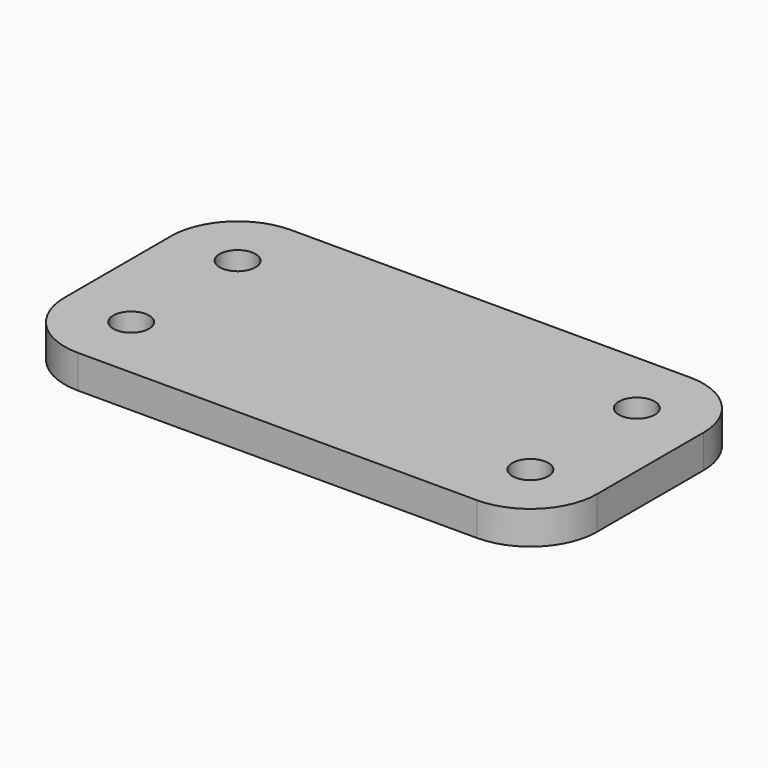
from build123d import *

# Parameters (mm, degrees)
SKETCH097_W     = 80
SKETCH097_H     = 40
PAD078_DEPTH    = 5
SKETCH098_R     = 2.7
POCKET023_DEPTH = 5.001
FILLET012_R     = 10


with BuildPart() as part:
    # Sketch097 → Pad078 (new body)
    with BuildSketch(Plane.XY):
        with Locations((40, 20)):
            Rectangle(SKETCH097_W, SKETCH097_H)
    extrude(amount=PAD078_DEPTH)

    # Sketch098 (on Face6 of Pad078) → Pocket023 (cut, through all)
    with BuildSketch(Plane.XY.offset(5)):
        with Locations((10, 30)):
            Circle(SKETCH098_R)
        with Locations((10, 10)):
            Circle(SKETCH098_R)
        with Locations((70, 30)):
            Circle(SKETCH098_R)
        with Locations((70, 10)):
            Circle(SKETCH098_R)
    extrude(amount=-POCKET023_DEPTH, mode=Mode.SUBTRACT)

    # Fillet012
    fillet012_edges = [part.edges().sort_by_distance(p)[0] for p in [
        (0, 0, 2.5),
        (0, 40, 2.5),
        (80, 0, 2.5),
        (80, 40, 2.5),
    ]]
    fillet(fillet012_edges, radius=FILLET012_R)


solid = part.part
